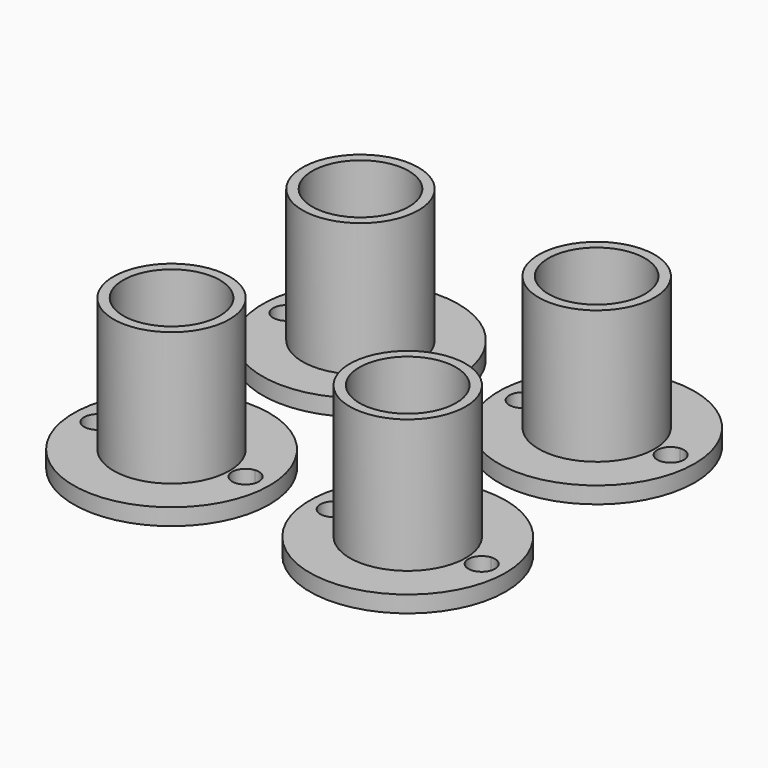
from build123d import *

# Parameters (mm, degrees)
F0_R     = 18.669
F0_R_2   = 11.049
F0_R_3   = 9.2075
F1_DEPTH = 3.175
F2_DEPTH = 25.4


with BuildPart() as f1:
    # F0 (on Top) → F1 (new body)
    with BuildSketch(Plane.XY):
        Circle(F0_R)
        with BuildLine():
            ThreePointArc((-13.868171, 2.529671), (0, 14.097), (13.868171, 2.529671))
            ThreePointArc((13.868171, 2.529671), (15.810239, 1.87521), (16.637, 0))
            ThreePointArc((16.637, 0), (15.810239, -1.87521), (13.868171, -2.529671))
            ThreePointArc((13.868171, -2.529671), (0, -14.097), (-13.868171, -2.529671))
            ThreePointArc((-13.868171, -2.529671), (-16.637, 0), (-13.868171, 2.529671))
        make_face(mode=Mode.SUBTRACT)
        with BuildLine():
            ThreePointArc((13.868171, -2.529671), (11.557, 0), (13.868171, 2.529671))
            ThreePointArc((13.868171, 2.529671), (0, 14.097), (-13.868171, 2.529671))
            ThreePointArc((-13.868171, 2.529671), (-12.22179, 1.713239), (-11.557, 0))
            ThreePointArc((-11.557, 0), (-12.22179, -1.713239), (-13.868171, -2.529671))
            ThreePointArc((-13.868171, -2.529671), (0, -14.097), (13.868171, -2.529671))
        make_face()
        Circle(F0_R_2, mode=Mode.SUBTRACT)
        Circle(F0_R_2)
        Circle(F0_R_3, mode=Mode.SUBTRACT)
    extrude(amount=-F1_DEPTH)

    # F0 (on Top) → F2 (join)
    with BuildSketch(Plane.XY):
        Circle(F0_R_2)
        Circle(F0_R_3, mode=Mode.SUBTRACT)
    extrude(amount=F2_DEPTH)


with BuildPart() as f3_1:
    # F3: copy of F1
    add(f1.part.moved(Location((45, 0, 0))))


with BuildPart() as f4_1:
    # F4: copy of F1
    add(f1.part.moved(Location((0, 45, 0))))


with BuildPart() as f4_2:
    # F4: copy of F3_1
    add(f3_1.part.moved(Location((0, 45, 0))))


solid = Compound([f1.part, f3_1.part, f4_1.part, f4_2.part])
